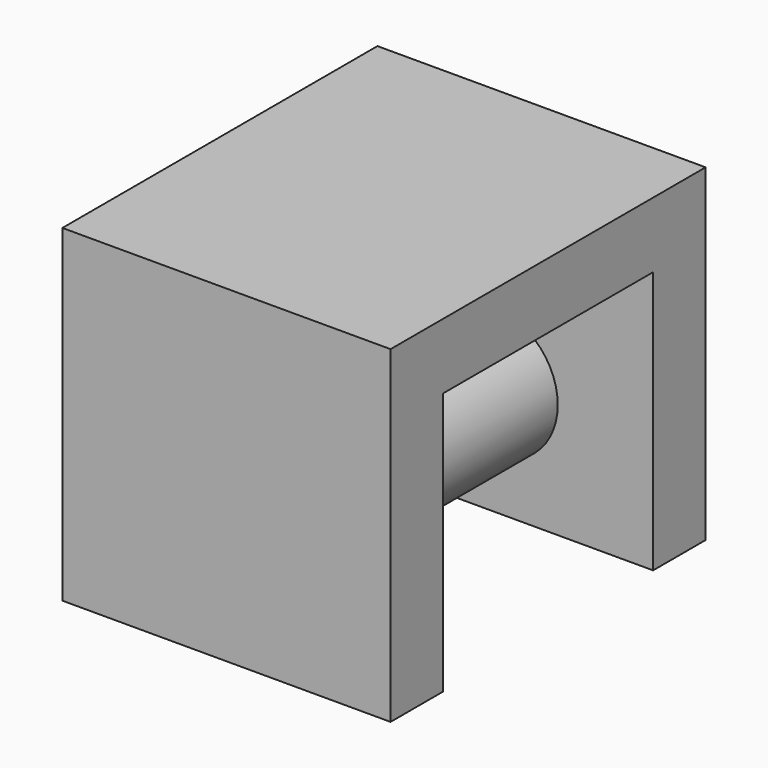
from build123d import *

# Parameters (mm, degrees)
F1_DEPTH = 127
F2_R     = 25.4
F3_DEPTH = 152.4


with BuildPart() as f1:
    # F0 (on Right) → F1 (new body)
    with BuildSketch(Plane.YZ):
        Polygon((63.745255, 56.260998), (-88.654745, 56.260998), (-88.654745, -70.739002), (-63.254745, -70.739002), (-63.254745, 30.860998), (38.345255, 30.860998), (38.345255, -70.739002), (63.745255, -70.739002), align=None)
    extrude(amount=F1_DEPTH)

    # F2 (on face) → F3 (join)
    with BuildSketch(Plane.XZ.offset(88.654745)):
        with Locations((64.692467, -26.329797)):
            Circle(F2_R)
    extrude(amount=-F3_DEPTH)


solid = f1.part
